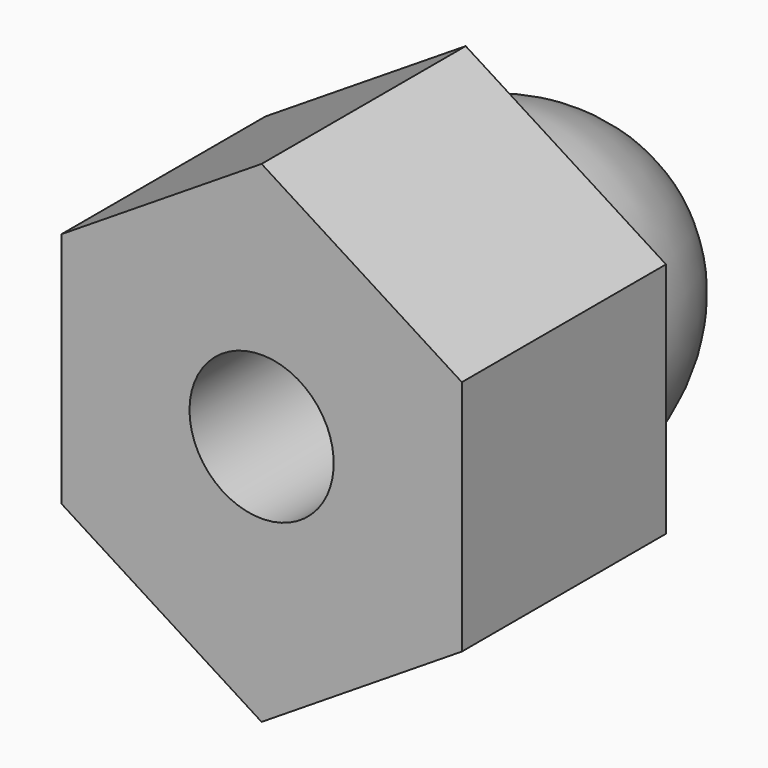
from build123d import *

# Parameters (mm, degrees)
F1_DEPTH = 7.5
F6_D     = 4.24


with BuildPart() as f4:
    # F0 (on Right) → F4 (revolve)
    with BuildSketch(Plane.YZ):
        with BuildLine():
            Line((-7.5, 0), (0, 0))
            Line((0, 0), (6.288552845, 0))
            add(Edge.make_bspline(
                [(6.288552845, 0), (6.2874522314, 4.9991249071), (0, 5)],
                knots=[0.0004759058, 0.0004759058, 0.0004759058, 1.5710971834, 1.5710971834, 1.5710971834], degree=2, weights=[1, 0.7071686677, 1]))
            Line((0, 5), (-0.0011008063, 5))
            Line((-0.0011008063, 5), (-7.5, 5))
            Line((-7.5, 5), (-7.5, 0))
        make_face()
    revolve(axis=Axis((0, -3.8328841329, 0), (0, 1, 0)))

    # F5 (on face) → F1 (join)
    with BuildSketch(Plane.XZ.offset(7.5)):
        Polygon((5.8867447078, 3.3254646696), (0, 7.0603471249), (-5.8867447078, 3.3254646696), (-5.8867447078, -3.6461284202), (0, -7.3810108755), (5.8867447078, -3.6461284202), align=None)
    extrude(amount=-F1_DEPTH)

    # F6 (through all)
    with Locations(Plane.XZ.offset(7.5)):
        with Locations((0, 0)):
            Hole(F6_D / 2)


solid = f4.part
